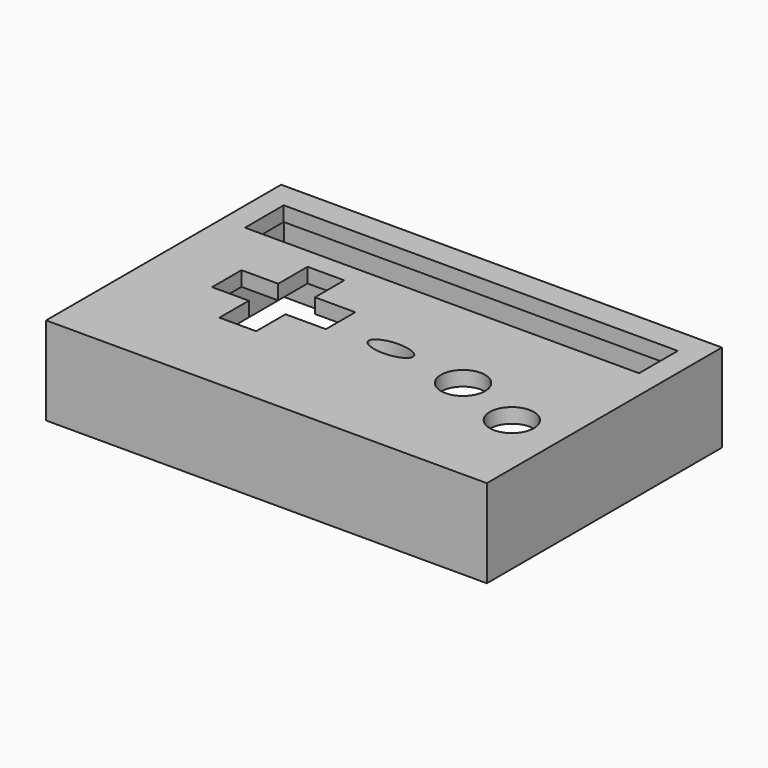
from build123d import *

# Parameters (mm, degrees)
F0_W     = 88.9
F0_H     = 57.15
F0_R     = 4.7625
F0_W_2   = 85.160196
F0_H_2   = 10.460668
F1_DEPTH = 3.175
F0_W_3   = 95.25
F0_H_3   = 63.5
F2_DEPTH = 19.05


with BuildPart() as f1:
    # F0 (on Top) → F1 (new body)
    with BuildSketch(Plane.XY):
        Rectangle(F0_W, F0_H)
        Polygon((-25.4, 3.175), (-25.4, 11.1125), (-17.4625, 11.1125), (-17.4625, 3.175), (-8.742713, 3.175), (-8.742713, -4.7625), (-17.4625, -4.7625), (-17.4625, -12.7), (-25.4, -12.7), (-25.4, -4.7625), (-33.3375, -4.7625), (-33.3375, 3.175), align=None, mode=Mode.SUBTRACT)
        with BuildLine():
            add(Edge.make_bspline(
                [(-0.483984, -3.476414), (-0.483984, -7.115989), (6.659766, -5.296201), (13.803516, -3.476414), (6.659766, -1.656627), (-0.483984, 0.163161), (-0.483984, -3.476414)],
                knots=[0, 0, 0, 2.094395, 2.094395, 4.18879, 4.18879, 6.283185, 6.283185, 6.283185], degree=2, weights=[1, 0.5, 1, 0.5, 1, 0.5, 1]))
        make_face(mode=Mode.SUBTRACT)
        with Locations((21.604328, -5.65704)):
            Circle(F0_R, mode=Mode.SUBTRACT)
        with Locations((36.5125, -11.1125)):
            Circle(F0_R, mode=Mode.SUBTRACT)
        with Locations((0, 20.904867)):
            Rectangle(F0_W_2, F0_H_2, mode=Mode.SUBTRACT)
    extrude(amount=-F1_DEPTH)

    # F0 (on Top) → F2 (join)
    with BuildSketch(Plane.XY):
        Rectangle(F0_W_3, F0_H_3)
        Rectangle(F0_W, F0_H, mode=Mode.SUBTRACT)
    extrude(amount=-F2_DEPTH)


solid = f1.part
